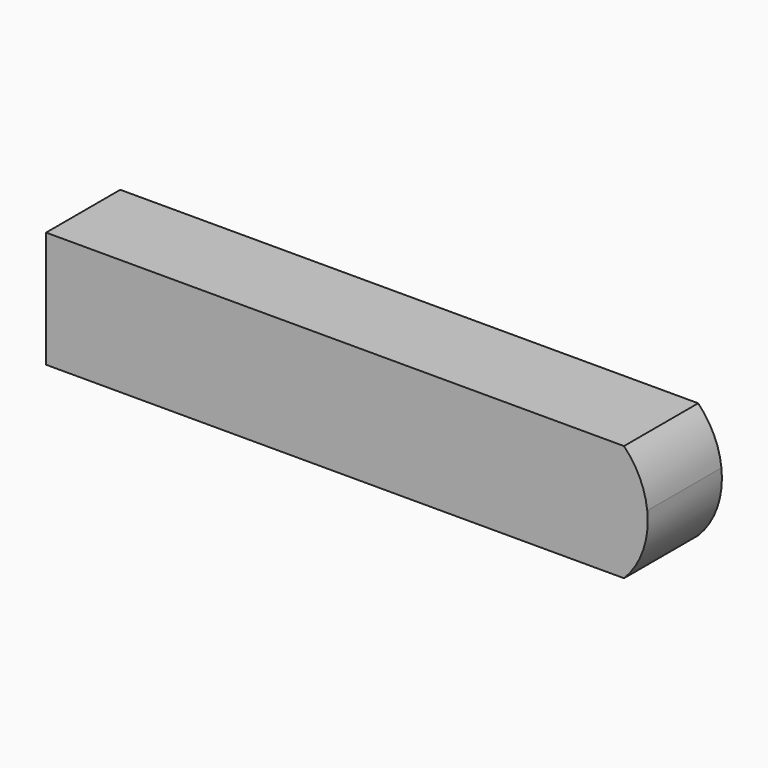
from build123d import *

# Parameters (mm, degrees)
F1_DEPTH = 41.148


with BuildPart() as f1:
    # F0 (on Front) → F1 (new body)
    with BuildSketch(Plane.XZ):
        with BuildLine():
            Line((70.220872, 29.207695), (-133.425549, 29.207695))
            Line((-133.425549, 29.207695), (-133.425549, -22.427447))
            Line((-133.425549, -22.427447), (70.220872, -22.427447))
            ThreePointArc((70.220872, -22.427447), (59.694726, 3.390124), (70.220872, 29.207695))
        make_face()
        with BuildLine():
            Line((123.017706, 29.207695), (70.220872, 29.207695))
            ThreePointArc((70.220872, 29.207695), (59.694726, 3.390124), (70.220872, -22.427447))
            Line((70.220872, -22.427447), (123.017706, -22.427447))
            Line((123.017706, -22.427447), (123.017706, 29.207695))
        make_face()
        with BuildLine():
            ThreePointArc((133.332968, 7.330834), (130.017394, 19.137822), (123.017706, 29.207695))
            Line((123.017706, 29.207695), (123.017706, -22.427447))
            ThreePointArc((123.017706, -22.427447), (131.507295, -8.70328), (133.332968, 7.330834))
        make_face()
    extrude(amount=F1_DEPTH)


solid = f1.part
